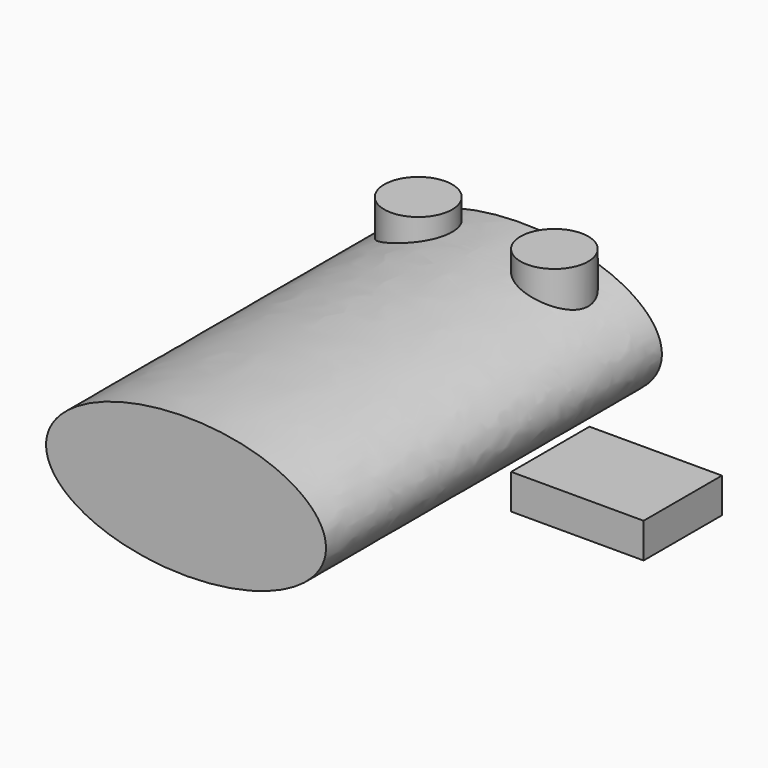
from build123d import *

# Parameters (mm, degrees)
F1_DEPTH = 300
F2_R     = 24.271856
F2_R_2   = 24.21332
F3_DEPTH = 62.434848
F4_W     = 94.646559
F4_H     = 69.939643
F5_DEPTH = 25


with BuildPart() as f1:
    # F0 (on Front) → F1 (new body)
    with BuildSketch(Plane.XZ):
        with BuildLine():
            add(Edge.make_bspline(
                [(-100, 0), (-100, -86.60254), (50, -43.30127), (200, 0), (50, 43.30127), (-100, 86.60254), (-100, 0)],
                knots=[0, 0, 0, 2.094395, 2.094395, 4.18879, 4.18879, 6.283185, 6.283185, 6.283185], degree=2, weights=[1, 0.5, 1, 0.5, 1, 0.5, 1]))
        make_face()
    extrude(amount=F1_DEPTH)

    # F2 (on Top) → F3 (join)
    with BuildSketch(Plane.XY):
        with Locations((-49.886823, -30.219834)):
            Circle(F2_R)
        with Locations((48.66273, -31.802885)):
            Circle(F2_R_2)
    extrude(amount=F3_DEPTH)


with BuildPart() as f5:
    # F4 (on Top) → F5 (new body)
    with BuildSketch(Plane.XY):
        with Locations((200.466163, -166.070447)):
            Rectangle(F4_W, F4_H)
    extrude(amount=F5_DEPTH)


solid = Compound([f1.part, f5.part])
